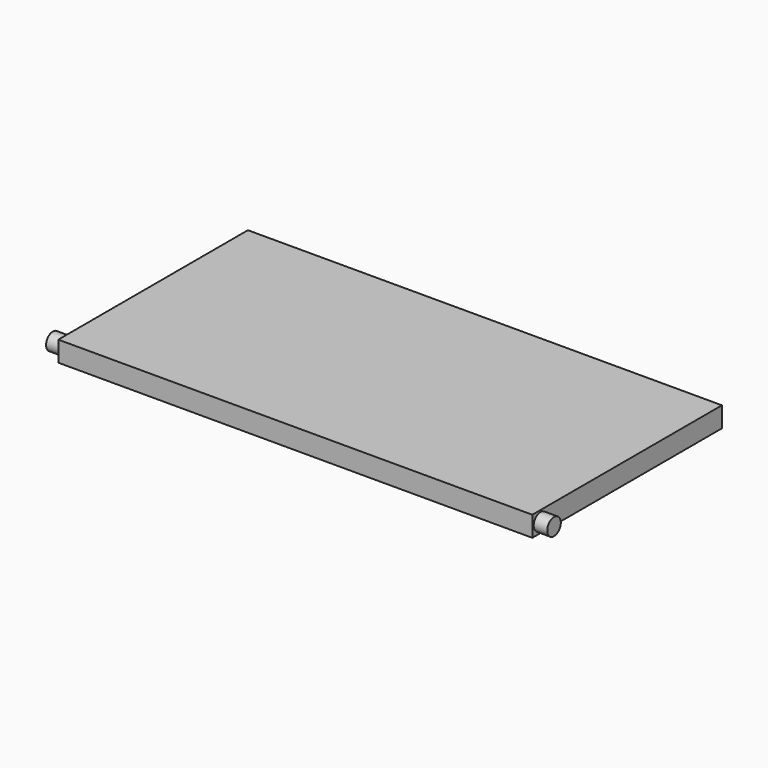
from build123d import *

# Parameters (mm, degrees)
F0_W     = 177.8
F0_H     = 88.9
F1_DEPTH = 7.62
F2_R     = 3.175
F3_DEPTH = 5.08
F4_R     = 3.175
F5_DEPTH = 5.08


with BuildPart() as f1:
    # F0 (on Top) → F1 (new body)
    with BuildSketch(Plane.XY):
        Rectangle(F0_W, F0_H)
    extrude(amount=F1_DEPTH)

    # F2 (on face) → F3 (join)
    with BuildSketch(Plane(origin=(-88.9, 0, 0), x_dir=(0, -1, 0), z_dir=(-1, 0, 0))):
        with Locations((40.64371, 3.935415)):
            Circle(F2_R)
    extrude(amount=F3_DEPTH)

    # F4 (on face) → F5 (join)
    with BuildSketch(Plane.YZ.offset(88.9)):
        with Locations((-40.617126, 3.79308)):
            Circle(F4_R)
    extrude(amount=F5_DEPTH)


solid = f1.part
